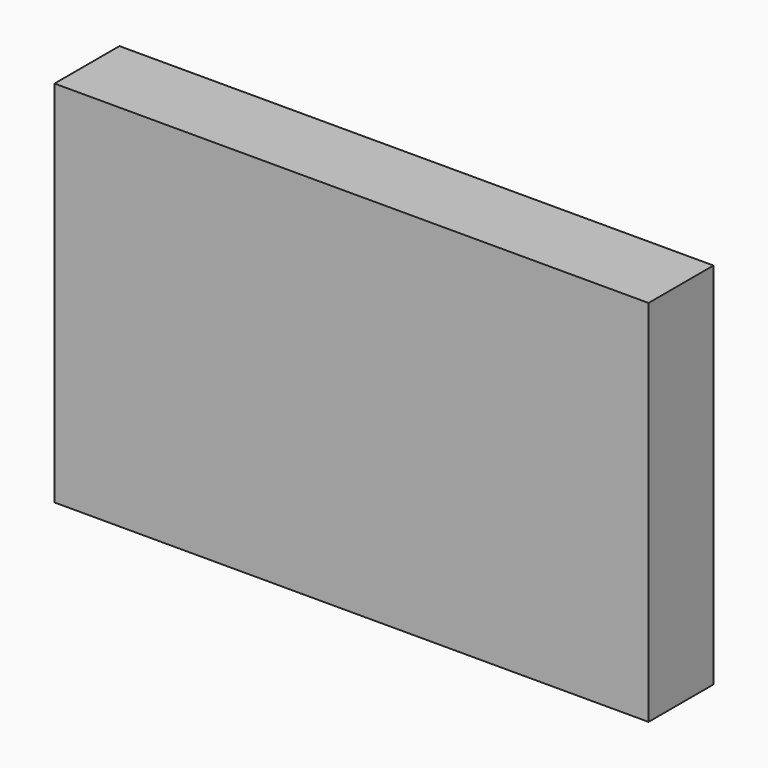
from build123d import *

# Parameters (mm, degrees)
F0_W     = 99.2550253868
F0_H     = 95.004145056
F1_DEPTH = 25.4
F3_W     = 185.97952649
F3_H     = 115.4745575041
F4_DEPTH = 25.4


with BuildPart() as f1:
    # F0 (on Front) → F1 (new body)
    with BuildSketch(Plane.XZ):
        with Locations((-80.9538513422, 2.1863337606)):
            Rectangle(F0_W, F0_H)
    extrude(amount=F1_DEPTH)


with BuildPart() as f4:
    # F3 (on Front) → F4 (new body)
    with BuildSketch(Plane.XZ):
        with Locations((-44.8461268097, -39.1611577943)):
            Rectangle(F3_W, F3_H)
    extrude(amount=F4_DEPTH)


solid = f4.part
